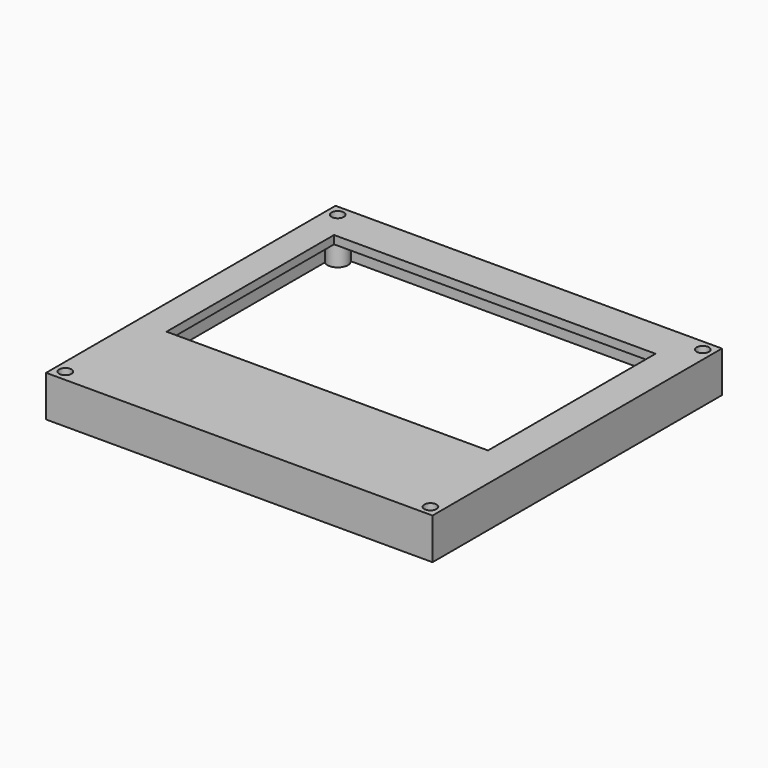
from build123d import *

# Parameters (mm, degrees)
F0_W     = 94
F0_H     = 88
F0_R     = 2.5
F1_DEPTH = 10
F2_W     = 92
F2_H     = 86
F3_DEPTH = 8
F4_W     = 78.2
F4_H     = 50.94
F5_DEPTH = 25
F0_R_2   = 1.5
F6_DEPTH = 10


with BuildPart() as f1:
    # F0 (on Top) → F1 (new body)
    with BuildSketch(Plane.XY):
        with Locations((6.636954, 8.70822)):
            Rectangle(F0_W, F0_H)
        with Locations((-37.816051, -32.62452)):
            Circle(F0_R, mode=Mode.SUBTRACT)
        with Locations((51.075991, -32.724809)):
            Circle(F0_R, mode=Mode.SUBTRACT)
        with Locations((-37.748028, 50.113171)):
            Circle(F0_R, mode=Mode.SUBTRACT)
        with Locations((51.075991, 50.113171)):
            Circle(F0_R, mode=Mode.SUBTRACT)
    extrude(amount=F1_DEPTH)

    # F2 (on Top) → F3 (cut)
    with BuildSketch(Plane.XY):
        with Locations((6.636954, 8.70822)):
            Rectangle(F2_W, F2_H)
    extrude(amount=F3_DEPTH, mode=Mode.SUBTRACT)

    # F4 (on Top) → F5 (cut)
    with BuildSketch(Plane.XY):
        with Locations((6.036954, 17.67822)):
            Rectangle(F4_W, F4_H)
    extrude(amount=F5_DEPTH, mode=Mode.SUBTRACT)

    # F0 (on Top) → F6 (join)
    with BuildSketch(Plane.XY):
        with Locations((-37.816051, -32.62452)):
            Circle(F0_R)
        with Locations((-37.816051, -32.62452)):
            Circle(F0_R_2, mode=Mode.SUBTRACT)
        with Locations((-37.748028, 50.113171)):
            Circle(F0_R)
        with Locations((-37.748028, 50.113171)):
            Circle(F0_R_2, mode=Mode.SUBTRACT)
        with Locations((51.075991, 50.113171)):
            Circle(F0_R)
        with Locations((51.075991, 50.113171)):
            Circle(F0_R_2, mode=Mode.SUBTRACT)
        with Locations((51.075991, -32.724809)):
            Circle(F0_R)
        with Locations((51.075991, -32.724809)):
            Circle(F0_R_2, mode=Mode.SUBTRACT)
    extrude(amount=F6_DEPTH)


solid = f1.part
